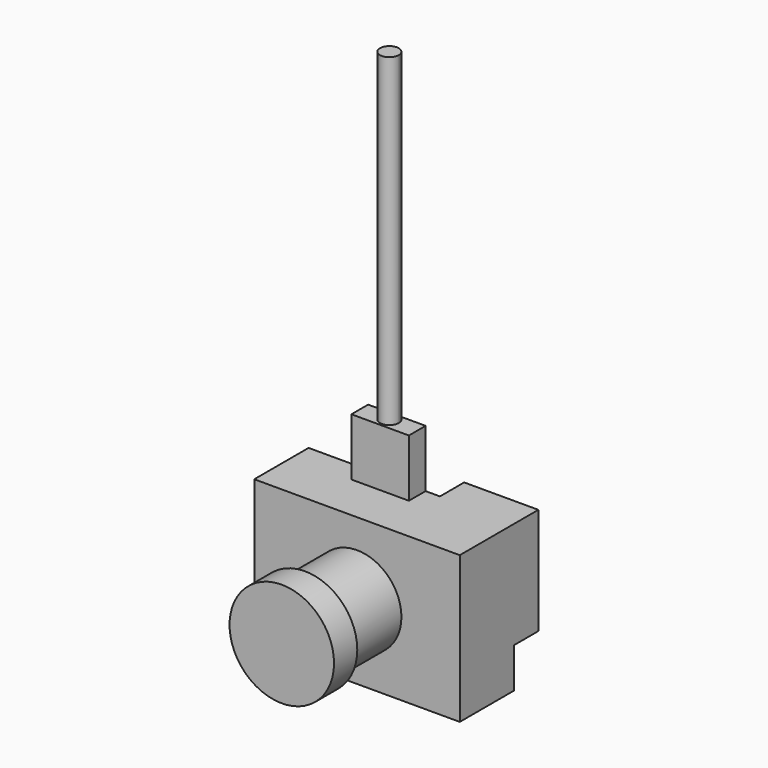
from build123d import *

# Parameters (mm, degrees)
F0_W      = 19.67
F0_H      = 14.05
F0_R      = 4.25
F1_DEPTH  = 6.5
F2_DEPTH  = 15.5
F3_R      = 5
F4_DEPTH  = 2.78
F5_W      = 7.1
F5_H      = 10.22
F6_DEPTH  = 2.9
F7_W      = 5.5
F7_H      = 2
F8_DEPTH  = 5.5
F10_DEPTH = 31


with BuildPart() as f1:
    # F0 (on Front) → F1 (new body)
    with BuildSketch(Plane.XZ):
        with Locations((9.835, -7.025)):
            Rectangle(F0_W, F0_H)
        with Locations((9.835, -7.025)):
            Circle(F0_R, mode=Mode.SUBTRACT)
        with Locations((9.835, -7.025)):
            Circle(F0_R)
    extrude(amount=F1_DEPTH)

    # F0 (on Front) → F2 (join)
    with BuildSketch(Plane.XZ):
        with Locations((9.835, -7.025)):
            Circle(F0_R)
    extrude(amount=F2_DEPTH)

    # F3 (on face) → F4 (join)
    with BuildSketch(Plane.XZ.offset(15.5)):
        with Locations((9.835, -7.025)):
            Circle(F3_R)
    extrude(amount=-F4_DEPTH)

    # F5 (on face) → F6 (join)
    with BuildSketch(Plane(origin=(0, 0, 0), x_dir=(-1, 0, 0), z_dir=(0, 1, 0))):
        with Locations((-16.12, -5.11)):
            Rectangle(F5_W, F5_H)
    extrude(amount=F6_DEPTH)

    # F7 (on face) → F8 (join)
    with BuildSketch(Plane.XY):
        with Locations((8.45, -1)):
            Rectangle(F7_W, F7_H)
    extrude(amount=F8_DEPTH)

    # F9 (on face) → F10 (join)
    with BuildSketch(Plane.XY.offset(5.5)):
        with BuildLine():
            ThreePointArc((8.45, 0), (7.813604, -1.536396), (9.35, -0.9))
            ThreePointArc((9.35, -0.9), (9.086396, -0.263604), (8.45, 0))
        make_face()
    extrude(amount=F10_DEPTH)


solid = f1.part
